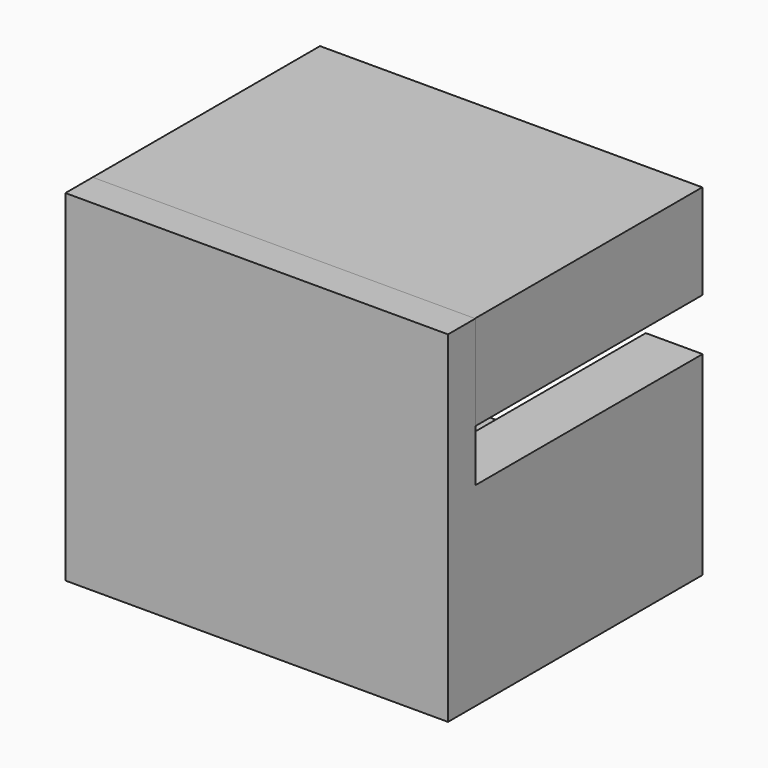
from build123d import *

# Parameters (mm, degrees)
F0_W      = 33.635031
F0_H      = 30.111361
F1_DEPTH  = 25
F3_D      = 55
F3_DEPTH  = 50
F4_W      = 33.664012
F4_H      = 30.019902
F5_DEPTH  = 3
F6_W      = 33.664012
F6_H      = 6.110329
F7_DEPTH  = 25
F9_D      = 2.5
F9_DEPTH  = 10
F10_W     = 5
F10_H     = 25
F11_DEPTH = 11
F12_DEPTH = 11


with BuildPart() as f1:
    # F0 (on Front) → F1 (new body)
    with BuildSketch(Plane.XZ):
        with Locations((4.426996, 1.44823)):
            Rectangle(F0_W, F0_H)
    extrude(amount=F1_DEPTH)

    # F3
    with Locations(Plane.XZ.offset(25)):
        with Locations((4.426995, -13.60745)):
            Hole(F3_D / 2, depth=F3_DEPTH)


with BuildPart() as f5:
    # F4 (on face) → F5 (new body)
    with BuildSketch(Plane.XZ.offset(25)):
        with Locations((4.441486, 1.49396)):
            Rectangle(F4_W, F4_H)
    extrude(amount=F5_DEPTH)

    # F6 (on face) → F7 (join)
    with BuildSketch(Plane(origin=(0, -25, 0), x_dir=(-1, 0, 0), z_dir=(0, 1, 0))):
        with Locations((-4.441486, -10.460826)):
            Rectangle(F6_W, F6_H)
    extrude(amount=F7_DEPTH)

    # F9
    with Locations(Plane(origin=(0, 0, -13.515991), x_dir=(1, 0, 0), z_dir=(0, 0, -1))):
        with Locations((4.441486, 14)):
            Hole(F9_D / 2, depth=F9_DEPTH)

    # F10 (on face) → F11 (join)
    with BuildSketch(Plane.XY.offset(-7.405662)):
        with Locations((-9.89052, -12.5)):
            Rectangle(F10_W, F10_H)
    extrude(amount=F11_DEPTH)

    # F10 (on face) → F12 (join)
    with BuildSketch(Plane.XY.offset(-7.405662)):
        with Locations((18.773492, -12.5)):
            Rectangle(F10_W, F10_H)
    extrude(amount=F12_DEPTH)


solid = Compound([f1.part, f5.part])
